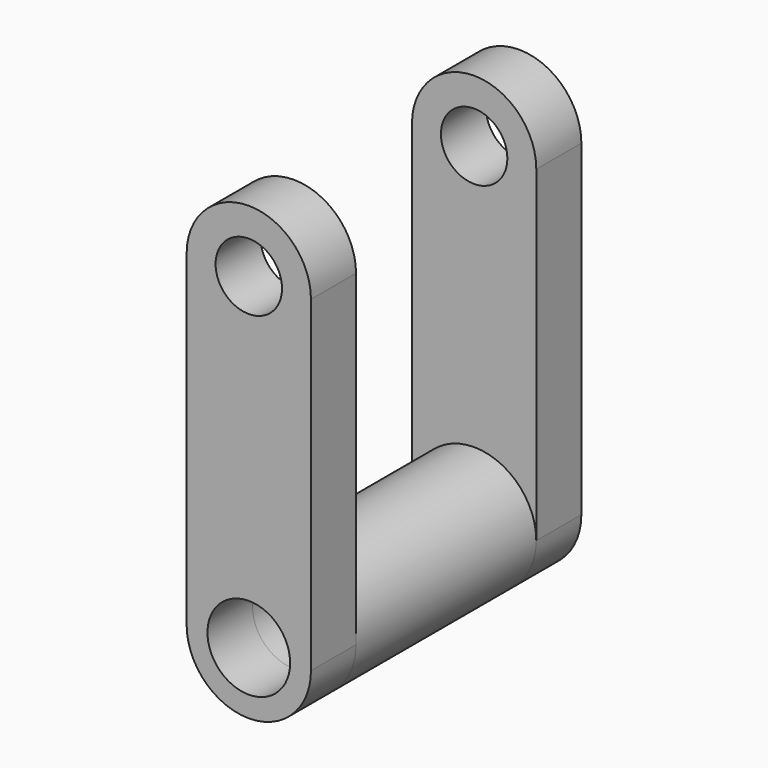
from build123d import *

# Parameters (mm, degrees)
F1_DEPTH = 12.7
F2_R     = 9.316955817
F3_DEPTH = 25.4


with BuildPart() as f1:
    # F0 (on Front) → F1 (new body)
    with BuildSketch(Plane.XZ):
        with BuildLine():
            ThreePointArc((-28.5067475531, 44.7771735489), (-21.0178554989, 52.2660656031), (-13.5289634447, 44.7771735489))
            Line((-13.5289634447, 44.7771735489), (-7.00595323, 44.7771735489))
            ThreePointArc((-7.00595323, 44.7771735489), (-21.0178554989, 58.7890758179), (-35.0297577679, 44.7771735489))
            Line((-35.0297577679, 44.7771735489), (-28.5067475531, 44.7771735489))
        make_face()
        with BuildLine():
            Line((-7.00595323, 44.7771735489), (-13.5289634447, 44.7771735489))
            ThreePointArc((-13.5289634447, 44.7771735489), (-21.0178554989, 37.2882814947), (-28.5067475531, 44.7771735489))
            Line((-28.5067475531, 44.7771735489), (-35.0297577679, 44.7771735489))
            Line((-35.0297577679, 44.7771735489), (-35.0297577679, -28.9376266301))
            Line((-35.0297577679, -28.9376266301), (-30.3348113159, -28.9376266301))
            ThreePointArc((-30.3348113159, -28.9376266301), (-21.0178554989, -19.6206708131), (-11.700899682, -28.9376266301))
            Line((-11.700899682, -28.9376266301), (-7.00595323, -28.9376266301))
            Line((-7.00595323, -28.9376266301), (-7.00595323, 44.7771735489))
        make_face()
        with BuildLine():
            ThreePointArc((-35.0297577679, -28.9376266301), (-21.0178554989, -42.949528899), (-7.00595323, -28.9376266301))
            Line((-7.00595323, -28.9376266301), (-11.700899682, -28.9376266301))
            ThreePointArc((-11.700899682, -28.9376266301), (-21.0178554989, -38.254582447), (-30.3348113159, -28.9376266301))
            Line((-30.3348113159, -28.9376266301), (-35.0297577679, -28.9376266301))
        make_face()
    extrude(amount=F1_DEPTH)

    # F2 (on face) → F3 (join)
    with BuildSketch(Plane.XZ.offset(12.7)):
        with BuildLine():
            ThreePointArc((-35.0297577679, -28.9376266301), (-21.0178554989, -42.949528899), (-7.00595323, -28.9376266301))
            ThreePointArc((-7.00595323, -28.9376266301), (-21.0178554989, -14.9257243611), (-35.0297577679, -28.9376266301))
        make_face()
        with Locations((-21.0178554989, -28.9376266301)):
            Circle(F2_R, mode=Mode.SUBTRACT)
    extrude(amount=F3_DEPTH)

    # F4: F1 across face


with BuildPart() as f1_1:
    add(f1.part)
    add(f1.part.mirror(Plane(origin=(-21.0178554989, -38.1, -28.9376266301), x_dir=(1, 0, 0), z_dir=(0, -1, 0))))


solid = f1_1.part
